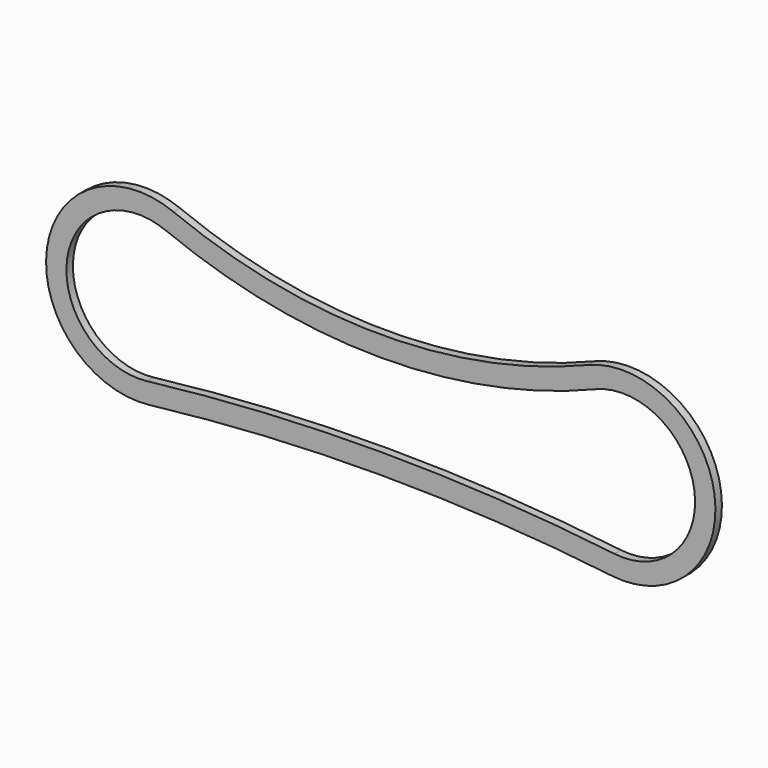
from build123d import *

# Parameters (mm, degrees)
F1_DEPTH = 20


with BuildPart() as f1:
    # F0 (on Front) → F1 (new body)
    with BuildSketch(Plane.XZ):
        with BuildLine():
            ThreePointArc((509.500497, 210.870514), (0.324461, 111.222173), (-508.851575, 210.870514))
            ThreePointArc((-508.851575, 210.870514), (-820.284919, 30.537419), (-567.997599, -226.098239))
            ThreePointArc((-567.997599, -226.098239), (0.324461, -192.685209), (568.646521, -226.098239))
            ThreePointArc((568.646521, -226.098239), (820.933841, 30.537419), (509.500497, 210.870514))
        make_face()
        with BuildLine():
            ThreePointArc((-573.85659, -176.442704), (-770.736746, 23.830812), (-527.700174, 164.55928))
            ThreePointArc((-527.700174, 164.55928), (0.324461, 61.222173), (528.349095, 164.55928))
            ThreePointArc((528.349095, 164.55928), (771.385668, 23.830812), (574.505511, -176.442704))
            ThreePointArc((574.505511, -176.442704), (0.324461, -142.685209), (-573.85659, -176.442704))
        make_face(mode=Mode.SUBTRACT)
    extrude(amount=F1_DEPTH)


solid = f1.part
